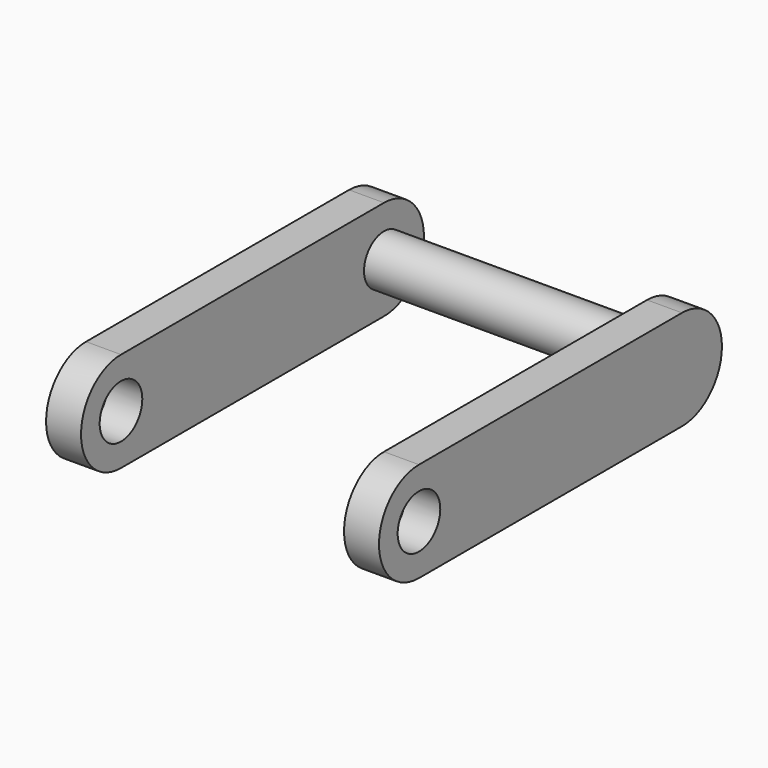
from build123d import *

# Parameters (mm, degrees)
PAD139_DEPTH            = 2
SKETCH244_R             = 1.5
PAD140_DEPTH            = 16
PAD141_DEPTH            = 2
SKETCH246_R             = 1.5
PAD142_DEPTH            = 0.5
SKETCH247_R             = 1.5
PAD143_DEPTH            = 0.5
PAD143_FACE5_R          = 1.5
PAD212_DEPTH            = 0.1
PAD212_FACE4_R          = 1.5
PAD213_DEPTH            = 0.1
SKETCH353_R             = 1.6
POCKET170_DEPTH         = 22
BODY020_ROLL_ANGLE      = 90
BODY020_PLACEMENT_ANGLE = 90


with BuildPart() as part:
    # Sketch243 → Pad139 (new body)
    with BuildSketch(Plane.XY):
        with BuildLine():
            ThreePointArc((0, 3), (-3, 0), (0, -3))
            Line((0, -3), (19.75, -3))
            ThreePointArc((19.75, -3), (22.75, 0), (19.75, 3))
            Line((0, 3), (19.75, 3))
        make_face()
    extrude(amount=PAD139_DEPTH)

    # Sketch244 (on Face6 of Pad139) → Pad140 (join)
    with BuildSketch(Plane.XY.offset(2)):
        Circle(SKETCH244_R)
        with Locations((19.75, 0)):
            Circle(SKETCH244_R)
    extrude(amount=PAD140_DEPTH)

    # Sketch245 (on Face9 of Pad140) → Pad141 (join)
    with BuildSketch(Plane.XY.offset(18)):
        with BuildLine():
            ThreePointArc((0, 3), (-3, 0), (0, -3))
            Line((0, -3), (19.75, -3))
            ThreePointArc((19.75, -3), (22.75, 0), (19.75, 3))
            Line((0, 3), (19.75, 3))
        make_face()
    extrude(amount=PAD141_DEPTH)

    # Sketch246 (on Face14 of Pad141) → Pad142 (join)
    with BuildSketch(Plane.XY.offset(20)):
        Circle(SKETCH246_R)
    extrude(amount=PAD142_DEPTH)

    # Sketch247 (on Face4 of Pad142) → Pad143 (join)
    with BuildSketch(Plane(origin=(0, 0, 0), x_dir=(1, 0, 0), z_dir=(0, 0, -1))):
        Circle(SKETCH247_R)
    extrude(amount=PAD143_DEPTH)

    # Pad143 Face5 → Pad212 (add)
    with BuildSketch(Plane(origin=(9.875, 0, 2), x_dir=(0, 1, 0), z_dir=(0, 0, 1))):
        with BuildLine():
            ThreePointArc((3, 9.875), (0, 12.875), (-3, 9.875))
            Line((-3, 9.875), (-3, -9.875))
            ThreePointArc((-3, -9.875), (0, -12.875), (3, -9.875))
            Line((3, -9.875), (3, 9.875))
        make_face()
        with Locations((0, 9.875)):
            Circle(PAD143_FACE5_R, mode=Mode.SUBTRACT)
        with Locations((0, -9.875)):
            Circle(PAD143_FACE5_R, mode=Mode.SUBTRACT)
    extrude(amount=PAD212_DEPTH)

    # Pad212 Face4 → Pad213 (add)
    with BuildSketch(Plane(origin=(9.875, 0, 18), x_dir=(0, -1, 0), z_dir=(0, 0, -1))):
        with BuildLine():
            ThreePointArc((3, 9.875), (0, 12.875), (-3, 9.875))
            Line((-3, 9.875), (-3, -9.875))
            ThreePointArc((-3, -9.875), (0, -12.875), (3, -9.875))
            Line((3, -9.875), (3, 9.875))
        make_face()
        with Locations((0, 9.875)):
            Circle(PAD212_FACE4_R, mode=Mode.SUBTRACT)
        with Locations((0, -9.875)):
            Circle(PAD212_FACE4_R, mode=Mode.SUBTRACT)
    extrude(amount=PAD213_DEPTH)

    # Sketch353 (on Face3 of Pad213) → Pocket170 (cut)
    with BuildSketch(Plane.XY.offset(20.5)):
        Circle(SKETCH353_R)
    extrude(amount=-POCKET170_DEPTH, mode=Mode.SUBTRACT)


with BuildPart() as part_1:
    # Body020 roll: moved
    add(part.part.rotate(Axis((0, 0, 0), (1, 0, 0)), BODY020_ROLL_ANGLE))


with BuildPart() as part_2:
    # Body020 placement: moved
    add(part_1.part.moved(Location((28.2, -60.15, 0))).rotate(Axis((28.2, -60.15, 0), (0, 0, 1)), BODY020_PLACEMENT_ANGLE))


solid = part_2.part
